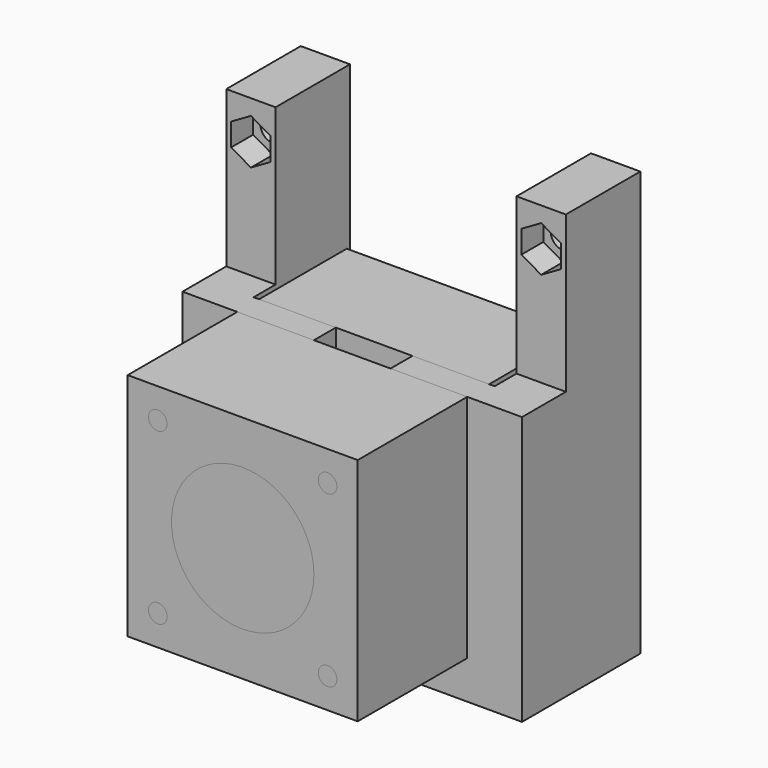
from build123d import *

# Parameters (mm, degrees)
F1_R      = 2.25
F2_DEPTH  = 12
F4_DEPTH  = 5
F5_W      = 44
F5_H      = 5
F6_DEPTH  = 7
F7_DEPTH  = 42
F8_R      = 1.7
F8_R_2    = 13
F9_DEPTH  = 5
F11_REACH = 63.8670687473
F12_R     = 1.7
F13_DEPTH = 20
F14_W     = 42
F14_H     = 42
F14_R     = 1.7
F14_R_2   = 13
F15_DEPTH = 25


with BuildPart() as f2:
    # F1 (on Front) → F2 (new body)
    with BuildSketch(Plane.XZ):
        Polygon((-27, 56.5), (-36, 56.5), (-36, -21), (26, -21), (26, 56.5), (17, 56.5), (17, -14), (-27, -14), align=None)
        with Locations((-31.5, 49.5)):
            Circle(F1_R, mode=Mode.SUBTRACT)
        with Locations((21.5, 49.5)):
            Circle(F1_R, mode=Mode.SUBTRACT)
    extrude(amount=-F2_DEPTH)

    # F3 (on face) → F4 (join)
    with BuildSketch(Plane.XZ):
        Polygon((-27, -14), (-27, 56.5), (-36, 56.5), (-36, -21), (26, -21), (26, 56.5), (17, 56.5), (17, -14), align=None)
        Polygon((-31.5, 53.6569219382), (-27.9, 51.5784609691), (-27.9, 47.4215390309), (-31.5, 45.3430780618), (-35.1, 47.4215390309), (-35.1, 51.5784609691), align=None, mode=Mode.SUBTRACT)
        Polygon((21.5, 53.6569219382), (25.1, 51.5784609691), (25.1, 47.4215390309), (21.5, 45.3430780618), (17.9, 47.4215390309), (17.9, 51.5784609691), align=None, mode=Mode.SUBTRACT)
    extrude(amount=F4_DEPTH)

    # F5 (on face) → F6 (join, through all)
    with BuildSketch(Plane.XY.offset(-14)):
        with Locations((-5, -7.5)):
            Rectangle(F5_W, F5_H)
        with Locations((-5, -12.5)):
            Rectangle(F5_W, F5_H)
        Polygon((-27, -10), (-27, -5), (-36, -5), (-36, -15), (-27, -15), align=None)
        Polygon((26, -5), (17, -5), (17, -10), (17, -15), (26, -15), align=None)
    extrude(amount=-F6_DEPTH)

    # F5 (on face) → F7 (join)
    with BuildSketch(Plane.XY.offset(-14)):
        with Locations((-5, -12.5)):
            Rectangle(F5_W, F5_H)
        Polygon((-27, -10), (-27, -5), (-36, -5), (-36, -15), (-27, -15), align=None)
        Polygon((26, -5), (17, -5), (17, -10), (17, -15), (26, -15), align=None)
    extrude(amount=F7_DEPTH)

    # F8 (on face) → F9 (cut, through all)
    with BuildSketch(Plane.XZ.offset(15)):
        with Locations((-20.5, 22.5)):
            Circle(F8_R)
        with Locations((-5, 7)):
            Circle(F8_R_2)
        with Locations((-20.5, -8.5)):
            Circle(F8_R)
        with Locations((10.5, -8.5)):
            Circle(F8_R)
        with Locations((10.5, 22.5)):
            Circle(F8_R)
    extrude(amount=-F9_DEPTH, mode=Mode.SUBTRACT)

    f11_end = f2.faces().sort_by_distance((-18, -12.5, 7))[0]
    # F10 (on face) → F11 (cut, up to a face of the model that its end follows)
    with BuildSketch(Plane.XY.offset(28)):
        Polygon((2, -10), (-5, -10), (-12, -10), (-12, -15), (2, -15), align=None)
    f11_long = extrude(amount=-F11_REACH, mode=Mode.PRIVATE)
    add(split(f11_long, bisect_by=f11_end, keep=Keep.ALL, mode=Mode.PRIVATE).solids().sort_by_distance((-5, -12.5, 28))[0], mode=Mode.SUBTRACT)


with BuildPart() as f13:
    # F12 (on face) → F13 (new body)
    with BuildSketch(Plane(origin=(0, -10, 0), x_dir=(-1, 0, 0), z_dir=(0, 1, 0))):
        with BuildLine():
            Line((-16, -14), (26, -14))
            Line((26, -14), (26, 28))
            Line((26, 28), (12, 28))
            Line((12, 28), (12, 17.9544511501))
            ThreePointArc((12, 17.9544511501), (5, -6), (-2, 17.9544511501))
            Line((-2, 17.9544511501), (-2, 28))
            Line((-2, 28), (-16, 28))
            Line((-16, 28), (-16, -14))
        make_face()
        with Locations((-10.5, -8.5)):
            Circle(F12_R, mode=Mode.SUBTRACT)
        with Locations((20.5, -8.5)):
            Circle(F12_R, mode=Mode.SUBTRACT)
        with Locations((-10.5, 22.5)):
            Circle(F12_R, mode=Mode.SUBTRACT)
        with Locations((20.5, 22.5)):
            Circle(F12_R, mode=Mode.SUBTRACT)
        with BuildLine():
            Line((12, 17.9544511501), (12, 28))
            Line((12, 28), (-2, 28))
            Line((-2, 28), (-2, 17.9544511501))
            ThreePointArc((-2, 17.9544511501), (5, -6), (12, 17.9544511501))
        make_face()
        with Locations((20.5, 22.5)):
            Circle(F12_R)
        with Locations((-10.5, 22.5)):
            Circle(F12_R)
        with Locations((-10.5, -8.5)):
            Circle(F12_R)
        with Locations((20.5, -8.5)):
            Circle(F12_R)
    extrude(amount=F13_DEPTH)


with BuildPart() as f15:
    # F14 (on face) → F15 (new body)
    with BuildSketch(Plane.XZ.offset(15)):
        with Locations((-5, 7)):
            Rectangle(F14_W, F14_H)
        with Locations((-20.5, -8.5)):
            Circle(F14_R, mode=Mode.SUBTRACT)
        with Locations((10.5, -8.5)):
            Circle(F14_R, mode=Mode.SUBTRACT)
        with Locations((-20.5, 22.5)):
            Circle(F14_R, mode=Mode.SUBTRACT)
        with Locations((-5, 7)):
            Circle(F14_R_2, mode=Mode.SUBTRACT)
        with Locations((10.5, 22.5)):
            Circle(F14_R, mode=Mode.SUBTRACT)
    extrude(amount=F15_DEPTH)


with BuildPart() as f15b:
    # F8 (on face) → F15, piece 2 (new body)
    with BuildSketch(Plane.XZ.offset(15)):
        with Locations((-20.5, 22.5)):
            Circle(F8_R)
    extrude(amount=F15_DEPTH)


with BuildPart() as f15c:
    # F8 (on face) → F15, piece 3 (new body)
    with BuildSketch(Plane.XZ.offset(15)):
        with Locations((-5, 7)):
            Circle(F8_R_2)
    extrude(amount=F15_DEPTH)


with BuildPart() as f15d:
    # F8 (on face) → F15, piece 4 (new body)
    with BuildSketch(Plane.XZ.offset(15)):
        with Locations((-20.5, -8.5)):
            Circle(F8_R)
    extrude(amount=F15_DEPTH)


with BuildPart() as f15e:
    # F8 (on face) → F15, piece 5 (new body)
    with BuildSketch(Plane.XZ.offset(15)):
        with Locations((10.5, 22.5)):
            Circle(F8_R)
    extrude(amount=F15_DEPTH)


with BuildPart() as f15f:
    # F8 (on face) → F15, piece 6 (new body)
    with BuildSketch(Plane.XZ.offset(15)):
        with Locations((10.5, -8.5)):
            Circle(F8_R)
    extrude(amount=F15_DEPTH)


solid = Compound([f2.part, f13.part, f15.part, f15b.part, f15c.part, f15d.part, f15e.part, f15f.part])
